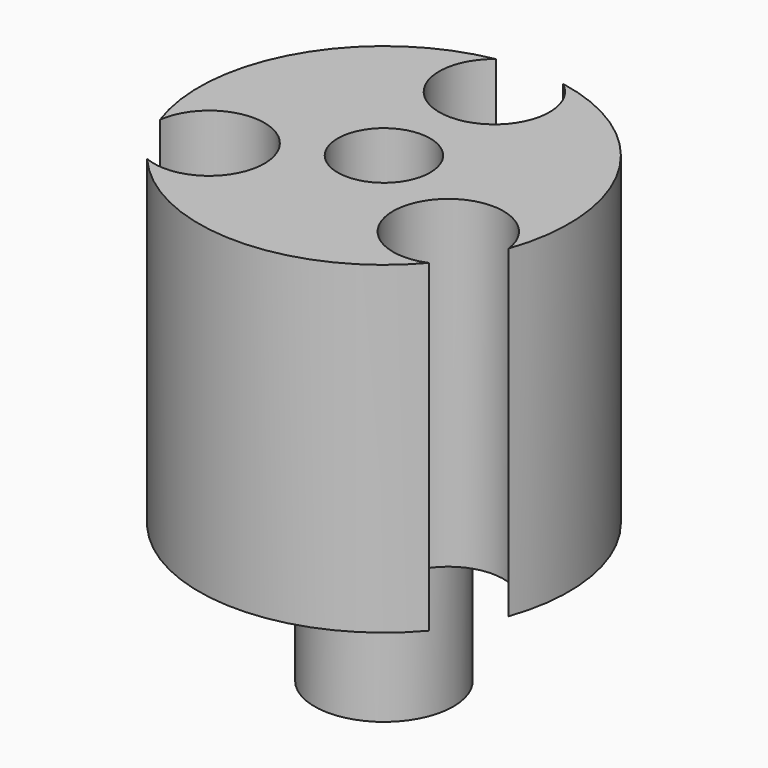
from build123d import *

# Parameters (mm, degrees)
F0_R     = 25.4
F1_DEPTH = 44.45
F2_R     = 9.525
F3_DEPTH = 19.05
F4_R     = 6.35
F5_DEPTH = 76.2
F6_R     = 7.581193
F7_DEPTH = 44.45


with BuildPart() as f1:
    # F0 (on Top) → F1 (new body)
    with BuildSketch(Plane.XY):
        Circle(F0_R)
    extrude(amount=F1_DEPTH)

    # F2 (on Top) → F3 (join)
    with BuildSketch(Plane.XY):
        Circle(F2_R)
    extrude(amount=-F3_DEPTH)

    # F4 (on face) → F5 (cut)
    with BuildSketch(Plane(origin=(0, 0, -19.05), x_dir=(1, 0, 0), z_dir=(0, 0, -1))):
        Circle(F4_R)
    extrude(amount=-F5_DEPTH, mode=Mode.SUBTRACT)

    # F6 (on Top) → F7 (cut)
    with BuildSketch(Plane.XY):
        with Locations((0, 18.949738)):
            Circle(F6_R)
        with Locations((-16.410954, -9.474869)):
            Circle(F6_R)
        with Locations((16.410954, -9.474869)):
            Circle(F6_R)
    extrude(amount=F7_DEPTH, mode=Mode.SUBTRACT)


solid = f1.part
